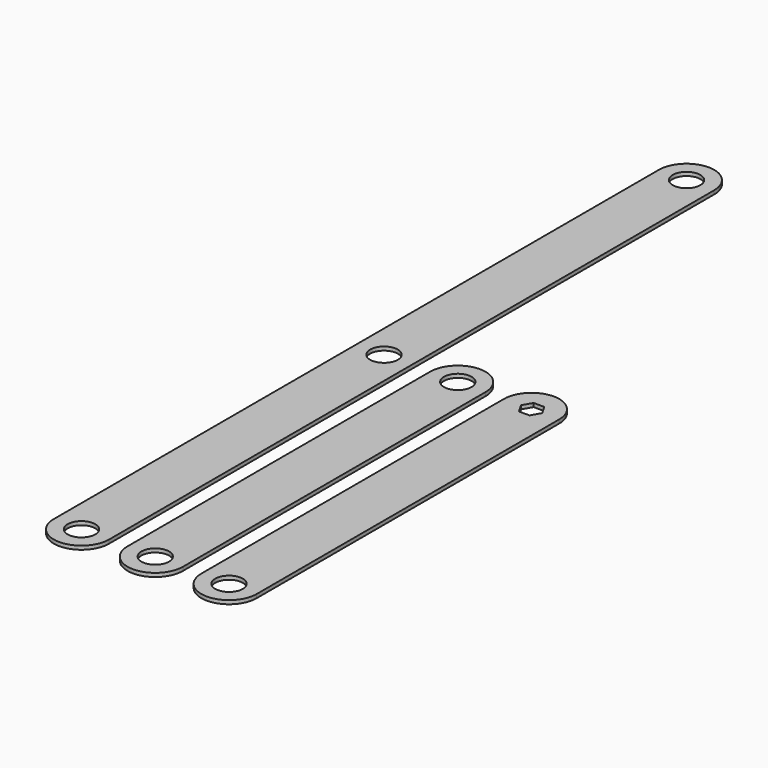
from build123d import *

# Parameters (mm, degrees)
SKETCH_R     = 3.75
PAD_DEPTH    = 1
SKETCH001_R  = 3.75
PAD001_DEPTH = 1
SKETCH002_R  = 3.75
PAD002_DEPTH = 1


with BuildPart() as obj1:
    # Sketch → Pad (new body)
    with BuildSketch(Plane.XY):
        with BuildLine():
            ThreePointArc((7.5, 102.49996), (0, 110), (-7.5, 102.49996))
            Line((-7.5, 102.49996), (-7.5, -102.5))
            ThreePointArc((-7.5, -102.5), (0, -110), (7.5, -102.5))
            Line((7.5, 102.49996), (7.5, -102.5))
        make_face()
        with Locations((0, 102.5)):
            Circle(SKETCH_R, mode=Mode.SUBTRACT)
        with Locations((0, -102.5)):
            Circle(SKETCH_R, mode=Mode.SUBTRACT)
        Circle(SKETCH_R, mode=Mode.SUBTRACT)
    extrude(amount=PAD_DEPTH)


with BuildPart() as obj2:
    # Sketch001 → Pad001 (new body)
    with BuildSketch(Plane.XY):
        with BuildLine():
            Line((-7.5, 0), (-7.5, -102.499971))
            ThreePointArc((-7.5, -102.499971), (0, -110), (7.5, -102.49997))
            Line((7.5, 0), (7.5, -102.49997))
            ThreePointArc((7.5, 0), (0, 7.5), (-7.5, 0))
        make_face()
        with Locations((0, -102.5)):
            Circle(SKETCH001_R, mode=Mode.SUBTRACT)
        Circle(SKETCH001_R, mode=Mode.SUBTRACT)
    extrude(amount=PAD001_DEPTH)


with BuildPart() as obj2_1:
    # Body001 placement: moved
    add(obj2.part.moved(Location((20, 0, 0))))


with BuildPart() as obj3:
    # Sketch002 → Pad002 (new body)
    with BuildSketch(Plane.XY):
        with BuildLine():
            Line((-7.5, -102.5), (-7.5, 0))
            ThreePointArc((7.5, 0), (0, 7.5), (-7.5, 0))
            Line((7.5, 0), (7.5, -102.5))
            ThreePointArc((-7.5, -102.5), (0, -110), (7.5, -102.5))
        make_face()
        with Locations((0, -102.5)):
            Circle(SKETCH002_R, mode=Mode.SUBTRACT)
        Polygon((2.886751, 0), (1.443376, 2.5), (-1.443376, 2.5), (-2.886751, 0), (-1.443376, -2.5), (1.443376, -2.5), align=None, mode=Mode.SUBTRACT)
    extrude(amount=PAD002_DEPTH)


with BuildPart() as obj3_1:
    # Body002 placement: moved
    add(obj3.part.moved(Location((40, 0, 0))))


solid = Compound([obj1.part, obj2_1.part, obj3_1.part])
